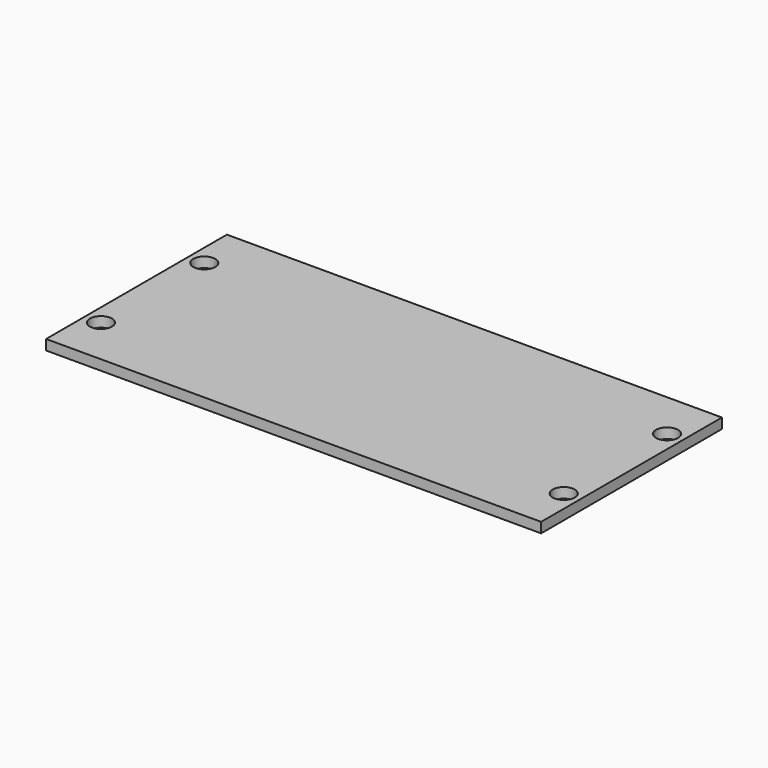
from build123d import *

# Parameters (mm, degrees)
F0_W     = 146.05
F0_H     = 66.675
F0_R     = 3.24
F1_DEPTH = 3


with BuildPart() as f1:
    # F0 (on Top) → F1 (new body)
    with BuildSketch(Plane.XY):
        Rectangle(F0_W, F0_H)
        with Locations((-68.262, -19.0495)):
            Circle(F0_R, mode=Mode.SUBTRACT)
        with Locations((68.262, -19.0495)):
            Circle(F0_R, mode=Mode.SUBTRACT)
        with Locations((-68.262, 19.0495)):
            Circle(F0_R, mode=Mode.SUBTRACT)
        with BuildLine():
            Line((-72.225, 12.6995), (-68.262, 12.6995))
            ThreePointArc((-68.262, 12.6995), (-61.912, 19.0495), (-68.262, 25.3995))
            Line((-68.262, 25.3995), (-72.225, 25.3995))
            Line((-72.225, 25.3995), (-72.225, 32.5375))
            Line((-72.225, 32.5375), (72.225, 32.5375))
            Line((72.225, 32.5375), (72.225, 25.3995))
            Line((72.225, 25.3995), (68.262, 25.3995))
            ThreePointArc((68.262, 25.3995), (61.912, 19.0495), (68.262, 12.6995))
            Line((68.262, 12.6995), (72.225, 12.6995))
            Line((72.225, 12.6995), (72.225, -12.6995))
            Line((72.225, -12.6995), (68.262, -12.6995))
            ThreePointArc((68.262, -12.6995), (61.912, -19.0495), (68.262, -25.3995))
            Line((68.262, -25.3995), (72.225, -25.3995))
            Line((72.225, -25.3995), (72.225, -32.5375))
            Line((72.225, -32.5375), (-72.225, -32.5375))
            Line((-72.225, -32.5375), (-72.225, -25.3995))
            Line((-72.225, -25.3995), (-68.262, -25.3995))
            ThreePointArc((-68.262, -25.3995), (-61.912, -19.0495), (-68.262, -12.6995))
            Line((-68.262, -12.6995), (-72.225, -12.6995))
            Line((-72.225, -12.6995), (-72.225, 12.6995))
        make_face(mode=Mode.SUBTRACT)
        with Locations((68.262, 19.0495)):
            Circle(F0_R, mode=Mode.SUBTRACT)
        with BuildLine():
            ThreePointArc((-68.262, 25.3995), (-61.912, 19.0495), (-68.262, 12.6995))
            Line((-68.262, 12.6995), (-72.225, 12.6995))
            Line((-72.225, 12.6995), (-72.225, -12.6995))
            Line((-72.225, -12.6995), (-68.262, -12.6995))
            ThreePointArc((-68.262, -12.6995), (-61.912, -19.0495), (-68.262, -25.3995))
            Line((-68.262, -25.3995), (-72.225, -25.3995))
            Line((-72.225, -25.3995), (-72.225, -32.5375))
            Line((-72.225, -32.5375), (72.225, -32.5375))
            Line((72.225, -32.5375), (72.225, -25.3995))
            Line((72.225, -25.3995), (68.262, -25.3995))
            ThreePointArc((68.262, -25.3995), (61.912, -19.0495), (68.262, -12.6995))
            Line((68.262, -12.6995), (72.225, -12.6995))
            Line((72.225, -12.6995), (72.225, 12.6995))
            Line((72.225, 12.6995), (68.262, 12.6995))
            ThreePointArc((68.262, 12.6995), (61.912, 19.0495), (68.262, 25.3995))
            Line((68.262, 25.3995), (72.225, 25.3995))
            Line((72.225, 25.3995), (72.225, 32.5375))
            Line((72.225, 32.5375), (-72.225, 32.5375))
            Line((-72.225, 32.5375), (-72.225, 25.3995))
            Line((-72.225, 25.3995), (-68.262, 25.3995))
        make_face()
    extrude(amount=F1_DEPTH)


solid = f1.part
